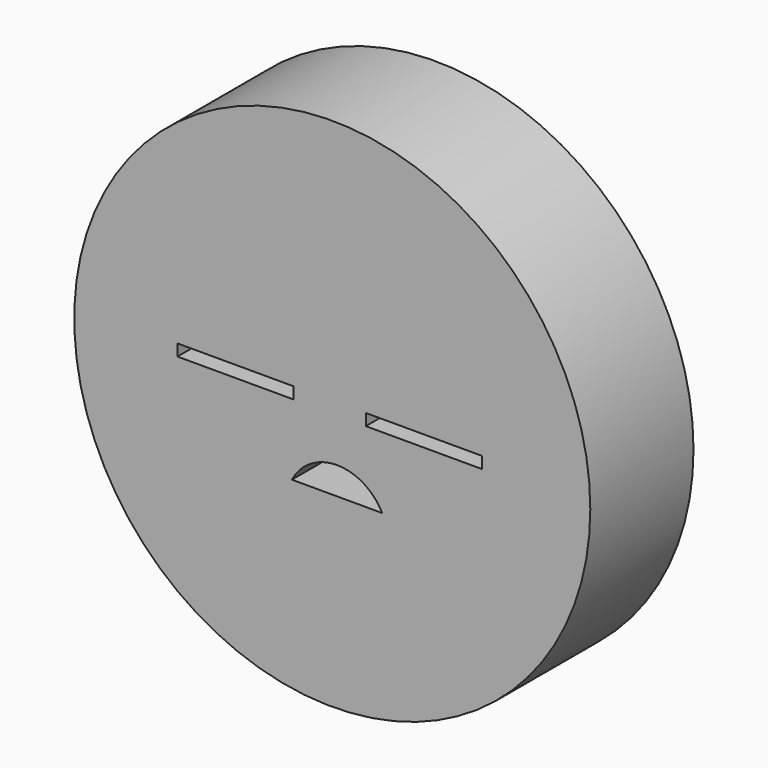
from build123d import *

# Parameters (mm, degrees)
F0_R     = 50.8
F0_W     = 22.86
F0_H     = 2.286
F1_DEPTH = 25.4


with BuildPart() as f1:
    # F0 (on Front) → F1 (new body)
    with BuildSketch(Plane.XZ):
        Circle(F0_R)
        with BuildLine():
            Line((9.832879, -14.010016), (-7.947121, -14.010016))
            ThreePointArc((-7.947121, -14.010016), (0.942879, -8.589429), (9.832879, -14.010016))
        make_face(mode=Mode.SUBTRACT)
        with Locations((-19.05, 1.143)):
            Rectangle(F0_W, F0_H, mode=Mode.SUBTRACT)
        with Locations((18.03015, 1.143)):
            Rectangle(F0_W, F0_H, mode=Mode.SUBTRACT)
    extrude(amount=F1_DEPTH)


solid = f1.part
